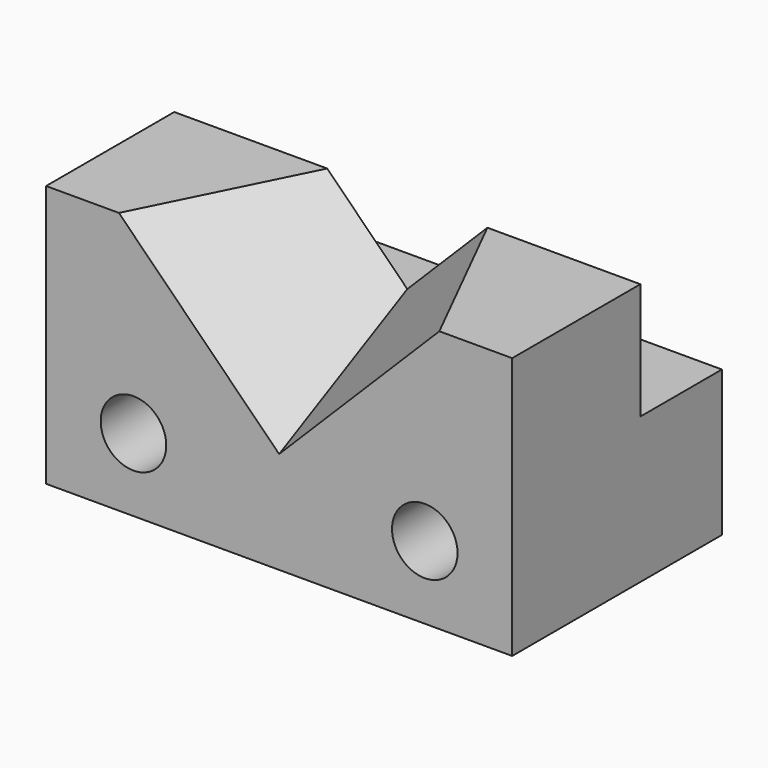
from build123d import *

# Parameters (mm, degrees)
F0_W     = 1625.6
F0_H     = 914.4
F1_DEPTH = 558.8
F2_W     = 1625.6
F2_H     = 508
F3_DEPTH = 355.6
F7_R     = 114.3
F8_DEPTH = 914.401


with BuildPart() as f1:
    # F0 (on Front) → F1 (new body)
    with BuildSketch(Plane.XZ):
        with Locations((0, 457.2)):
            Rectangle(F0_W, F0_H)
    extrude(amount=-F1_DEPTH)

    # F2 (on face) → F3 (join)
    with BuildSketch(Plane(origin=(0, 558.8, 0), x_dir=(-1, 0, 0), z_dir=(0, 1, 0))):
        with Locations((0, 254)):
            Rectangle(F2_W, F2_H)
    extrude(amount=F3_DEPTH)

    # F5 (on face) → F6 section 0
    with BuildSketch(Plane(origin=(0, 558.8, 0), x_dir=(-1, 0, 0), z_dir=(0, 1, 0))):
        Polygon((279.4, 914.4), (-279.4, 914.4), (0, 635), align=None)
    # F4 (on face) → F6 section 1
    with BuildSketch(Plane.XZ):
        Polygon((558.8, 914.4), (-558.8, 914.4), (0, 355.6), align=None)
    loft(mode=Mode.SUBTRACT)

    # F7 (on face) → F8 (cut, through all)
    with BuildSketch(Plane.XZ):
        with Locations((-508, 254)):
            Circle(F7_R)
        with Locations((508, 254)):
            Circle(F7_R)
    extrude(amount=-F8_DEPTH, mode=Mode.SUBTRACT)


solid = f1.part
